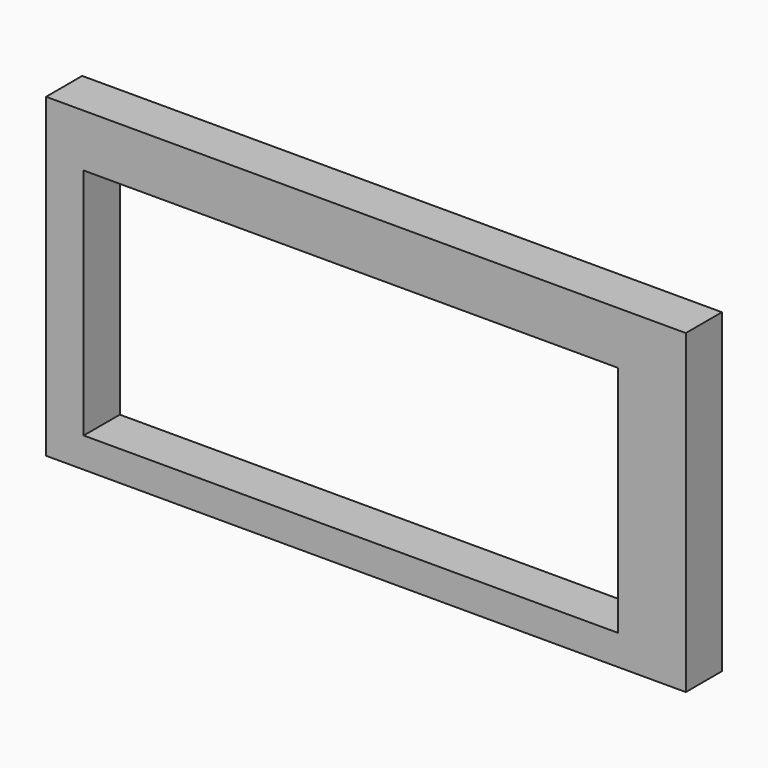
from build123d import *

# Parameters (mm, degrees)
BOX021_W     = 71
BOX021_H     = 6
BOX021_DEPTH = 31
BOX020_W     = 85
BOX020_H     = 6
BOX020_DEPTH = 42


with BuildPart() as cubo021:
    # Box021 → Box021 (new body)
    with BuildSketch(Plane(origin=(-65, 0, 84), x_dir=(1, 0, 0), z_dir=(0, 0, 1))):
        with Locations((35.5, 3)):
            Rectangle(BOX021_W, BOX021_H)
    extrude(amount=BOX021_DEPTH)


with BuildPart() as cut015:
    # Box020 → Box020 (new body)
    with BuildSketch(Plane(origin=(-70, 0, 80), x_dir=(1, 0, 0), z_dir=(0, 0, 1))):
        with Locations((42.5, 3)):
            Rectangle(BOX020_W, BOX020_H)
    extrude(amount=BOX020_DEPTH)

    # Cut015: cut Cubo021
    add(cubo021.part, mode=Mode.SUBTRACT)


with BuildPart() as cut015_1:
    # Cut015 placement: moved
    add(cut015.part.moved(Location((17, 0, 0))))


solid = cut015_1.part
